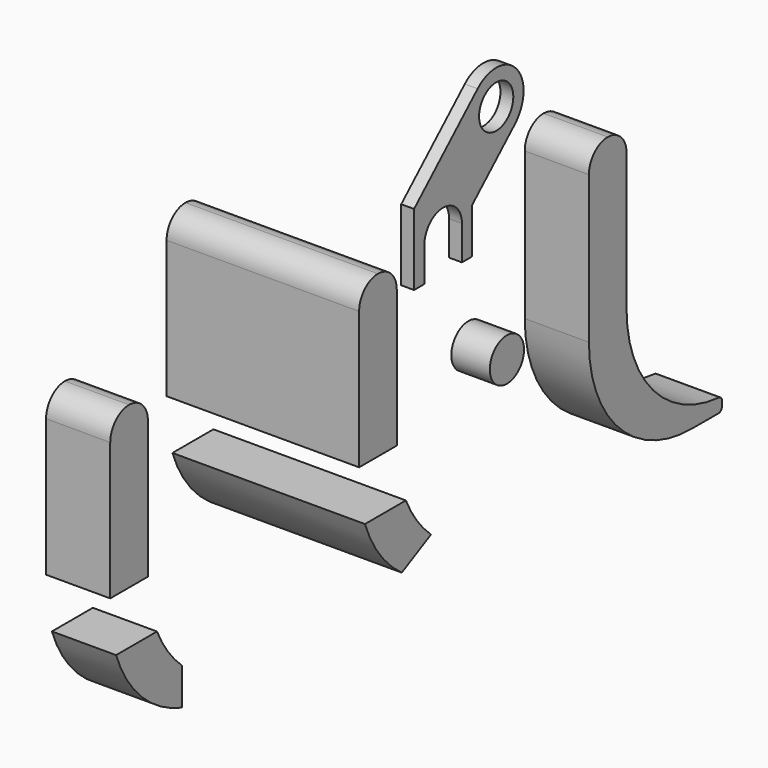
from build123d import *

# Parameters (mm, degrees)
F1_DEPTH = 150
F3_DEPTH = 450
F5_DEPTH = 150
F6_R     = 50
F7_DEPTH = 30
F8_R     = 50
F9_DEPTH = 90


with BuildPart() as f1:
    # F0 (on Right) → F1 (new body)
    with BuildSketch(Plane.YZ):
        with BuildLine():
            Line((0, 295), (0, 0))
            Line((0, 0), (0, -50))
            ThreePointArc((0, -50), (89.517146, -263.783369), (304.652779, -350))
            Line((304.652779, -350), (378.588458, -350.274808))
            ThreePointArc((378.588458, -350.274808), (385.683541, -347.359073), (388.625626, -340.274877))
            Line((388.625626, -340.274877), (388.625626, -328.039452))
            ThreePointArc((388.625626, -328.039452), (385.968449, -321.25101), (379.409036, -318.070186))
            ThreePointArc((379.409036, -318.070186), (187.671621, -225.091904), (110, -26.659758))
            Line((110, -26.659758), (110, 0))
            Line((110, 0), (110, 295))
            ThreePointArc((110, 295), (93.890873, 333.890873), (55, 350))
            ThreePointArc((55, 350), (16.109127, 333.890873), (0, 295))
        make_face()
    extrude(amount=-F1_DEPTH)


with BuildPart() as f3:
    # F2 (on Right) → F3 (new body)
    with BuildSketch(Plane.YZ):
        with BuildLine():
            Line((-671.483598, 286.598697), (-671.483598, 54.492479))
            Line((-671.483598, 54.492479), (-671.483598, -34.446935))
            Line((-671.483598, -34.446935), (-561.483598, -34.446935))
            Line((-561.483598, -34.446935), (-561.483598, 4.492479))
            Line((-561.483598, 4.492479), (-561.483598, 54.492479))
            Line((-561.483598, 54.492479), (-561.483598, 286.598697))
            ThreePointArc((-561.483598, 286.598697), (-577.592725, 325.48957), (-616.483598, 341.598697))
            ThreePointArc((-616.483598, 341.598697), (-655.374471, 325.48957), (-671.483598, 286.598697))
        make_face()
        with BuildLine():
            Line((-534.835678, -158.053732), (-654.451094, -158.053732))
            ThreePointArc((-654.451094, -158.053732), (-611.663176, -238.17344), (-546.860825, -301.817991))
            Line((-546.860825, -301.817991), (-461.483598, -258.053732))
            ThreePointArc((-461.483598, -258.053732), (-503.38347, -211.885522), (-534.835678, -158.053732))
        make_face()
    extrude(amount=-F3_DEPTH)


with BuildPart() as f5:
    # F4 (on Right) → F5 (new body)
    with BuildSketch(Plane.YZ):
        with BuildLine():
            Line((-1398.701041, 312.491503), (-1398.701041, 80.385285))
            Line((-1398.701041, 80.385285), (-1398.701041, -8.554128))
            Line((-1398.701041, -8.554128), (-1288.701041, -8.554128))
            Line((-1288.701041, -8.554128), (-1288.701041, 30.385285))
            Line((-1288.701041, 30.385285), (-1288.701041, 80.385285))
            Line((-1288.701041, 80.385285), (-1288.701041, 312.491503))
            ThreePointArc((-1288.701041, 312.491503), (-1304.810169, 351.382376), (-1343.701041, 367.491503))
            ThreePointArc((-1343.701041, 367.491503), (-1382.591914, 351.382376), (-1398.701041, 312.491503))
        make_face()
        with BuildLine():
            Line((-1262.053121, -132.160926), (-1381.668537, -132.160926))
            ThreePointArc((-1381.668537, -132.160926), (-1307.208482, -248.219295), (-1188.701041, -318.716327))
            Line((-1188.701041, -318.716327), (-1188.701041, -232.160926))
            ThreePointArc((-1188.701041, -232.160926), (-1230.600913, -185.992715), (-1262.053121, -132.160926))
        make_face()
    extrude(amount=-F5_DEPTH)


with BuildPart() as f7:
    # F6 (on Right) → F7 (new body)
    with BuildSketch(Plane.YZ):
        with BuildLine():
            Line((-510.980701, 265.180122), (-480.980701, 265.180122))
            Line((-480.980701, 265.180122), (-480.980701, 332.042155))
            Line((-480.980701, 332.042155), (-480.980701, 345.180122))
            ThreePointArc((-480.980701, 345.180122), (-464.871574, 384.070995), (-425.980701, 400.180122))
            ThreePointArc((-425.980701, 400.180122), (-387.089828, 384.070995), (-370.980701, 345.180122))
            Line((-370.980701, 345.180122), (-370.980701, 265.180122))
            Line((-370.980701, 265.180122), (-340.980701, 265.180122))
            Line((-340.980701, 265.180122), (-340.980701, 371.376031))
            Line((-340.980701, 371.376031), (-216.637744, 486.470302))
            ThreePointArc((-216.637744, 486.470302), (-191.040316, 542.092283), (-212.270881, 599.523079))
            ThreePointArc((-212.270881, 599.523079), (-267.892863, 625.120508), (-325.323658, 603.889942))
            Line((-325.323658, 603.889942), (-510.980701, 432.042155))
            Line((-510.980701, 432.042155), (-510.980701, 265.180122))
        make_face()
        with Locations((-270.980701, 545.180122)):
            Circle(F6_R, mode=Mode.SUBTRACT)
    extrude(amount=-F7_DEPTH)


with BuildPart() as f9:
    # F8 (on Right) → F9 (new body)
    with BuildSketch(Plane.YZ):
        with Locations((-352.12034, 86.900279)):
            Circle(F8_R)
    extrude(amount=F9_DEPTH)


solid = Compound([f1.part, f3.part, f5.part, f7.part, f9.part])
